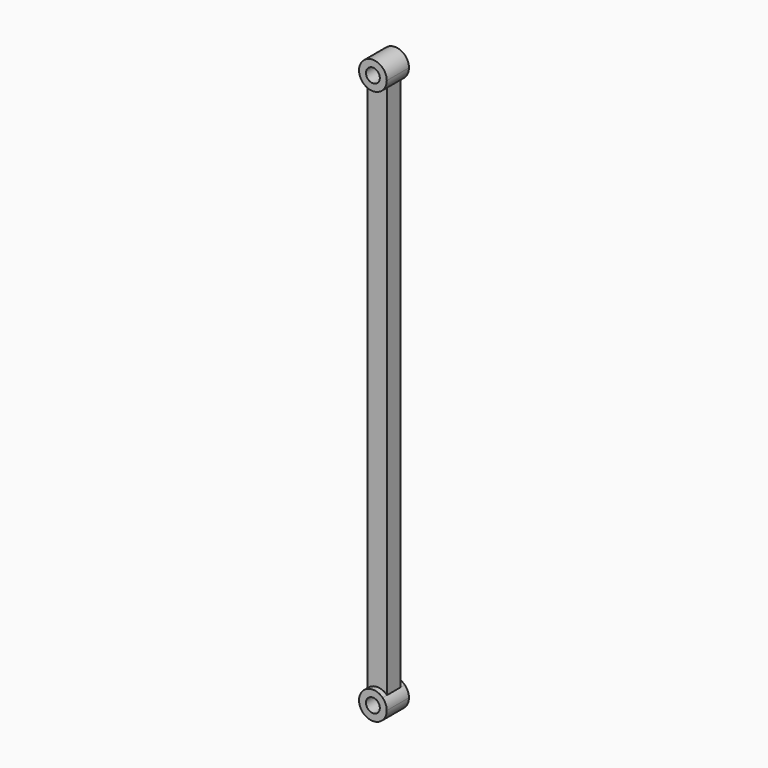
from build123d import *

# Parameters (mm, degrees)
F0_R     = 5
F1_DEPTH = 10
F2_DEPTH = 6


with BuildPart() as f1:
    # F0 (on Front) → F1 (new body, symmetric)
    with BuildSketch(Plane.XZ):
        with BuildLine():
            ThreePointArc((7, 192.858572), (9.219544, 196.127017), (10, 200))
            ThreePointArc((10, 200), (-3.872983, 209.219544), (-7, 192.858572))
            ThreePointArc((-7, 192.858572), (0, 190), (7, 192.858572))
        make_face()
        with Locations((0, 200)):
            Circle(F0_R, mode=Mode.SUBTRACT)
        with BuildLine():
            ThreePointArc((7, -192.858572), (0, -190), (-7, -192.858572))
            ThreePointArc((-7, -192.858572), (-3.872983, -209.219544), (10, -200))
            ThreePointArc((10, -200), (9.219544, -196.127017), (7, -192.858572))
        make_face()
        with Locations((0, -200)):
            Circle(F0_R, mode=Mode.SUBTRACT)
    extrude(amount=F1_DEPTH, both=True)

    # F0 (on Front) → F2 (join, symmetric)
    with BuildSketch(Plane.XZ):
        with BuildLine():
            ThreePointArc((7, 192.858572), (0, 190), (-7, 192.858572))
            Line((-7, 192.858572), (-7, -192.858572))
            ThreePointArc((-7, -192.858572), (0, -190), (7, -192.858572))
            Line((7, -192.858572), (7, 192.858572))
        make_face()
    extrude(amount=F2_DEPTH, both=True)


solid = f1.part
